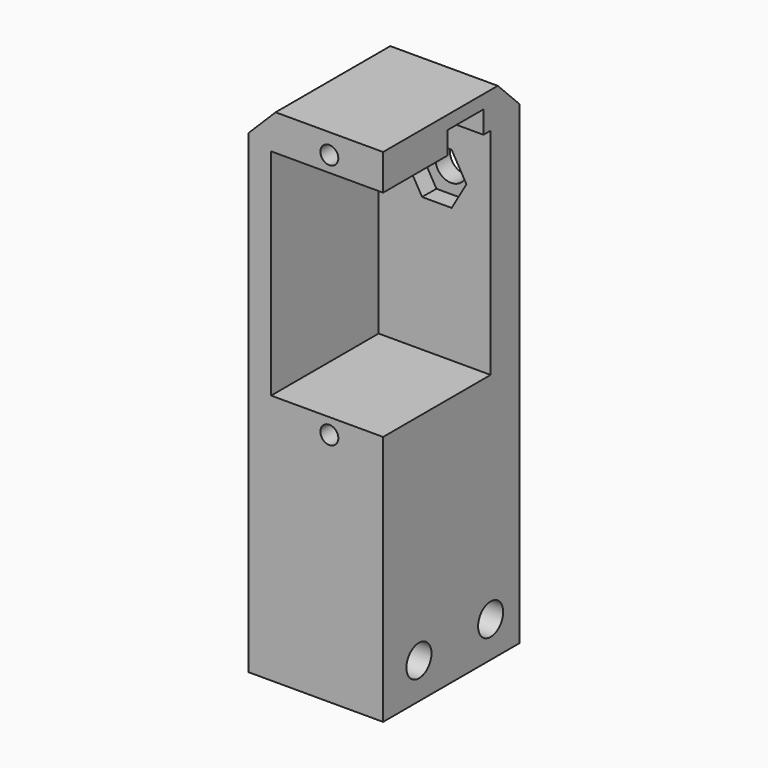
from build123d import *

# Parameters (mm, degrees)
BOX039_W                 = 5
BOX039_H                 = 12
BOX039_DEPTH             = 7.5
CYLINDER041_R            = 1.75
CYLINDER041_DEPTH        = 32
PRISM_DEPTH              = 10
SKETCH009_R              = 1
SKETCH009_W              = 24
SKETCH009_H              = 13
PAD004_DEPTH             = 30
CYLINDER039_R            = 1.75
CYLINDER039_DEPTH        = 32
CYLINDER039_ROLL_ANGLE   = -90
CYLINDER040_R            = 1.75
CYLINDER040_DEPTH        = 32
CYLINDER040_ROLL_ANGLE   = -90
BOX026_W                 = 19
BOX026_H                 = 15
BOX026_DEPTH             = 56
CHAMFER005_SIZE          = 3
FILLET054_R              = 0.5
CLONE013_PLACEMENT_ANGLE = -90


with BuildPart() as cubo015:
    # Box039 → Box039 (new body)
    with BuildSketch(Plane(origin=(9, 97, 127), x_dir=(1, 0, 0), z_dir=(0, 0, 1))):
        with Locations((2.5, 6)):
            Rectangle(BOX039_W, BOX039_H)
    extrude(amount=BOX039_DEPTH)


with BuildPart() as cilindro016:
    # Cylinder041 → Cylinder041 (new body)
    with BuildSketch(Plane(origin=(-5, 104, 125.85), x_dir=(0, -1, 0), z_dir=(1, 0, 0))):
        Circle(CYLINDER041_R)
    extrude(amount=CYLINDER041_DEPTH)


with BuildPart() as fusion030:
    # Prism → Prism (new body)
    with BuildSketch(Plane(origin=(6, 104, 125.85), x_dir=(0, -1, 0), z_dir=(1, 0, 0))):
        Polygon((3.3, 0), (1.65, 2.857884), (-1.65, 2.857884), (-3.3, 0), (-1.65, -2.857884), (1.65, -2.857884), align=None)
    extrude(amount=PRISM_DEPTH)

    # Fusion030: union Cilindro016
    add(cilindro016.part)


with BuildPart() as pad004:
    # Sketch009 → Pad004 (new body)
    with BuildSketch(Plane(origin=(38, -16, 143.25), x_dir=(0, 0, -1), z_dir=(1, 0, 0))):
        with Locations((37, 120)):
            Circle(SKETCH009_R)
        with Locations((9.5, 120)):
            Circle(SKETCH009_R)
        with Locations((23.25, 120)):
            Rectangle(SKETCH009_W, SKETCH009_H)
    extrude(amount=-PAD004_DEPTH)


with BuildPart() as cilindro014:
    # Cylinder039 → Cylinder039 (new body)
    with BuildSketch(Plane.XY):
        Circle(CYLINDER039_R)
    extrude(amount=CYLINDER039_DEPTH)


with BuildPart() as cilindro014_1:
    # Cylinder039 roll: moved
    add(cilindro014.part.rotate(Axis((0, 0, 0), (1, 0, 0)), CYLINDER039_ROLL_ANGLE))


with BuildPart() as cilindro014_2:
    # Cylinder039 placement: moved
    add(cilindro014_1.part.moved(Location((8, 90, 84))))


with BuildPart() as fusion029:
    # Cylinder040 → Cylinder040 (new body)
    with BuildSketch(Plane.XY):
        Circle(CYLINDER040_R)
    extrude(amount=CYLINDER040_DEPTH)


with BuildPart() as fusion029_1:
    # Cylinder040 roll: moved
    add(fusion029.part.rotate(Axis((0, 0, 0), (1, 0, 0)), CYLINDER040_ROLL_ANGLE))


with BuildPart() as fusion029_2:
    # Cylinder040 placement: moved
    add(fusion029_1.part.moved(Location((18, 90, 84))))

    # Fusion029: union Cilindro014
    add(cilindro014_2.part)


with BuildPart() as clone_of_arm:
    # Box026 → Box026 (new body)
    with BuildSketch(Plane(origin=(4, 98, 80), x_dir=(1, 0, 0), z_dir=(0, 0, 1))):
        with Locations((9.5, 7.5)):
            Rectangle(BOX026_W, BOX026_H)
    extrude(amount=BOX026_DEPTH)

    # Cut042: cut Fusion029
    add(fusion029_2.part, mode=Mode.SUBTRACT)

    # Cut043: cut Pad004
    add(pad004.part, mode=Mode.SUBTRACT)

    # Chamfer005
    chamfer005_edges = [clone_of_arm.edges().sort_by_distance(p)[0] for p in [
        (4, 105.5, 136),
        (13.5, 113, 136),
    ]]
    chamfer(chamfer005_edges, length=CHAMFER005_SIZE)

    # Cut044: cut Fusion030
    add(fusion030.part, mode=Mode.SUBTRACT)

    # Cut055: cut Cubo015
    add(cubo015.part, mode=Mode.SUBTRACT)

    # Fillet054
    fillet054_edges = [clone_of_arm.edges().sort_by_distance(p)[0] for p in [
        (11.5, 109, 134.5),
    ]]
    fillet(fillet054_edges, radius=FILLET054_R)


with BuildPart() as clone_of_arm_1:
    # Clone013 placement: moved
    add(clone_of_arm.part.moved(Location((-275, 70, 2.5))).rotate(Axis((-275, 70, 2.5), (0, 0, 1)), CLONE013_PLACEMENT_ANGLE))


with BuildPart() as clone_of_arm001:
    # Part__Mirroring008: instance of Clone of arm
    add(clone_of_arm_1.part.mirror(Plane(origin=(0, 0, 0), x_dir=(0, -1, 0), z_dir=(1, 0, 0))))


with BuildPart() as clone_of_arm001_1:
    # Part__Mirroring008 placement: moved
    add(clone_of_arm001.part.moved(Location((-478, 0, 0))))


solid = clone_of_arm001_1.part
